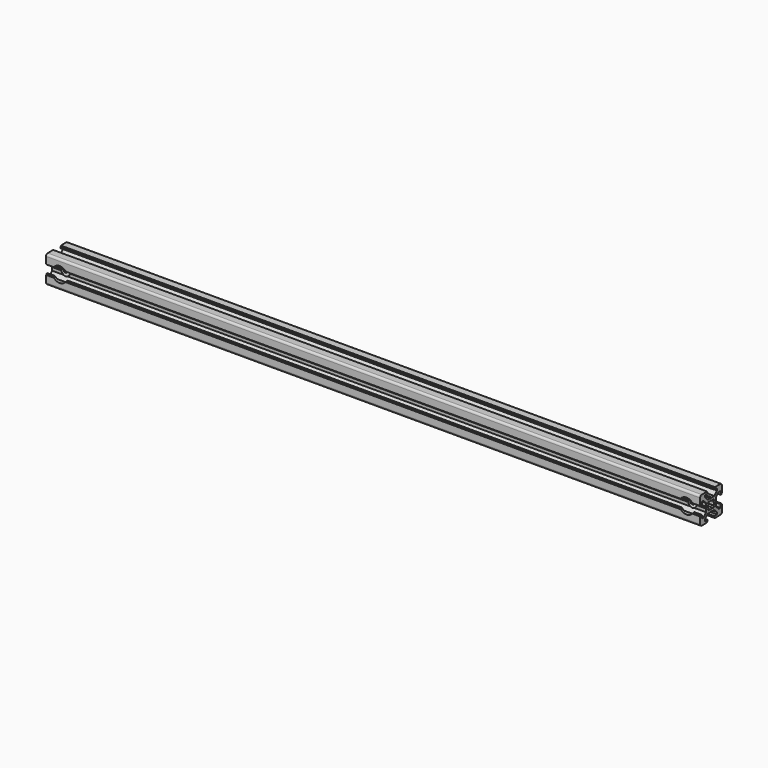
from build123d import *

# Parameters (mm, degrees)
PAD_DEPTH       = 480
SKETCH001_R     = 3.25
POCKET_DEPTH    = 21
SKETCH002_R     = 5.5
POCKET001_DEPTH = 2


with BuildPart() as part:
    # Sketch → Pad (new body)
    with BuildSketch(Plane.YZ):
        with BuildLine():
            Line((0, 4.1), (0.65, 4.5))
            Line((0.65, 4.5), (3, 4.5))
            Line((3, 4.5), (5.5, 7))
            Line((5.5, 7), (5.5, 8.5))
            Line((5.5, 8.5), (3, 8.5))
            Line((3, 8.5), (3, 9.5))
            Line((3, 9.5), (3.5, 9.5))
            Line((3.5, 9.5), (3.5, 10))
            Line((3.5, 10), (8.5, 10))
            ThreePointArc((10, 8.5), (9.56066, 9.56066), (8.5, 10))
            Line((10, 8.5), (10, 3.5))
            Line((10, 3.5), (9.5, 3.5))
            Line((9.5, 3.5), (9.5, 3))
            Line((9.5, 3), (8.5, 3))
            Line((8.5, 3), (8.5, 5.5))
            Line((8.5, 5.5), (7, 5.5))
            Line((7, 5.5), (4.5, 3))
            Line((4.5, 3), (4.5, 0.65))
            Line((4.5, 0.65), (4.1, 0))
            Line((4.5, -0.65), (4.1, 0))
            Line((4.5, -3), (4.5, -0.65))
            Line((7, -5.5), (4.5, -3))
            Line((8.5, -5.5), (7, -5.5))
            Line((8.5, -3), (8.5, -5.5))
            Line((9.5, -3), (8.5, -3))
            Line((9.5, -3.5), (9.5, -3))
            Line((10, -3.5), (9.5, -3.5))
            Line((10, -8.5), (10, -3.5))
            ThreePointArc((8.5, -10), (9.56066, -9.56066), (10, -8.5))
            Line((3.5, -10), (8.5, -10))
            Line((3.5, -9.5), (3.5, -10))
            Line((3, -9.5), (3.5, -9.5))
            Line((3, -8.5), (3, -9.5))
            Line((5.5, -8.5), (3, -8.5))
            Line((5.5, -7), (5.5, -8.5))
            Line((3, -4.5), (5.5, -7))
            Line((0.65, -4.5), (3, -4.5))
            Line((0, -4.1), (0.65, -4.5))
            Line((0, -4.1), (-0.65, -4.5))
            Line((-0.65, -4.5), (-3, -4.5))
            Line((-3, -4.5), (-5.5, -7))
            Line((-5.5, -7), (-5.5, -8.5))
            Line((-5.5, -8.5), (-3, -8.5))
            Line((-3, -8.5), (-3, -9.5))
            Line((-3, -9.5), (-3.5, -9.5))
            Line((-3.5, -9.5), (-3.5, -10))
            Line((-3.5, -10), (-8.5, -10))
            ThreePointArc((-10, -8.5), (-9.56066, -9.56066), (-8.5, -10))
            Line((-10, -8.5), (-10, -3.5))
            Line((-10, -3.5), (-9.5, -3.5))
            Line((-9.5, -3.5), (-9.5, -3))
            Line((-9.5, -3), (-8.5, -3))
            Line((-8.5, -3), (-8.5, -5.5))
            Line((-8.5, -5.5), (-7, -5.5))
            Line((-7, -5.5), (-4.5, -3))
            Line((-4.5, -3), (-4.5, -0.65))
            Line((-4.5, -0.65), (-4.1, 0))
            Line((-4.5, 0.65), (-4.1, 0))
            Line((-4.5, 3), (-4.5, 0.65))
            Line((-7, 5.5), (-4.5, 3))
            Line((-8.5, 5.5), (-7, 5.5))
            Line((-8.5, 3), (-8.5, 5.5))
            Line((-9.5, 3), (-8.5, 3))
            Line((-9.5, 3.5), (-9.5, 3))
            Line((-10, 3.5), (-9.5, 3.5))
            Line((-10, 8.5), (-10, 3.5))
            ThreePointArc((-8.5, 10), (-9.56066, 9.56066), (-10, 8.5))
            Line((-3.5, 10), (-8.5, 10))
            Line((-3.5, 9.5), (-3.5, 10))
            Line((-3, 9.5), (-3.5, 9.5))
            Line((-3, 8.5), (-3, 9.5))
            Line((-5.5, 8.5), (-3, 8.5))
            Line((-5.5, 7), (-5.5, 8.5))
            Line((-3, 4.5), (-5.5, 7))
            Line((-0.65, 4.5), (-3, 4.5))
            Line((0, 4.1), (-0.65, 4.5))
        make_face()
        with BuildLine():
            Line((1.340499, 2.401159), (1.923239, 2.983899))
            Line((1.923239, 2.983899), (2.983899, 1.923239))
            Line((2.983899, 1.923239), (2.401159, 1.340499))
            ThreePointArc((2.75, 0), (2.661361, 0.692573), (2.401159, 1.340499))
            ThreePointArc((2.401164, -1.34049), (2.661362, -0.692568), (2.75, 0))
            Line((2.983904, -1.92323), (2.401164, -1.34049))
            Line((1.923247, -2.983894), (2.983904, -1.92323))
            Line((1.340507, -2.401154), (1.923247, -2.983894))
            ThreePointArc((0, -2.75), (0.692577, -2.66136), (1.340507, -2.401154))
            ThreePointArc((-1.340507, -2.401154), (-0.692577, -2.66136), (0, -2.75))
            Line((-1.340507, -2.401154), (-1.923247, -2.983894))
            Line((-1.923247, -2.983894), (-2.983904, -1.92323))
            Line((-2.983904, -1.92323), (-2.401164, -1.34049))
            ThreePointArc((-2.75, 0), (-2.661362, -0.692568), (-2.401164, -1.34049))
            ThreePointArc((-2.401159, 1.340499), (-2.661361, 0.692572), (-2.75, 0))
            Line((-2.983899, 1.923239), (-2.401159, 1.340499))
            Line((-1.923239, 2.983899), (-2.983899, 1.923239))
            Line((-1.340499, 2.401159), (-1.923239, 2.983899))
            ThreePointArc((0, 2.75), (-0.692573, 2.661361), (-1.340499, 2.401159))
            ThreePointArc((1.340499, 2.401159), (0.692573, 2.661361), (0, 2.75))
        make_face(mode=Mode.SUBTRACT)
    extrude(amount=PAD_DEPTH)

    # Sketch001 → Pocket (cut)
    with BuildSketch(Plane.XZ.offset(10)):
        with Locations((10, 0)):
            Circle(SKETCH001_R)
        with Locations((470, 0)):
            Circle(SKETCH001_R)
    extrude(amount=-POCKET_DEPTH, mode=Mode.SUBTRACT)

    # Sketch002 → Pocket001 (cut)
    with BuildSketch(Plane.XZ.offset(10)):
        with Locations((10, 0)):
            Circle(SKETCH002_R)
        with Locations((470, 0)):
            Circle(SKETCH002_R)
    extrude(amount=-POCKET001_DEPTH, mode=Mode.SUBTRACT)


solid = part.part
